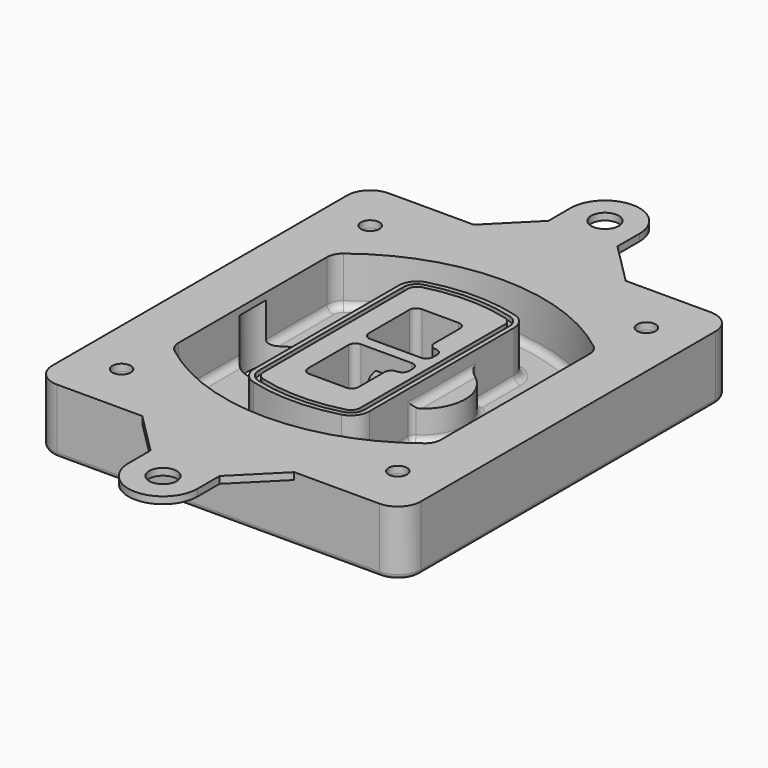
from build123d import *

# Parameters (mm, degrees)
F0_R      = 4
F1_DEPTH  = 25
F2_DEPTH  = 3
F3_DEPTH  = 18
F5_DEPTH  = 21
F6_DEPTH  = 2
F8_DEPTH  = 20
F9_DEPTH  = 16
F10_DEPTH = 25
F7_R      = 6
F7_R_2    = 4
F11_DEPTH = 6
F13_DEPTH = 9
F14_R     = 3
F15_R     = 2
F16_R     = 6
F16_R_2   = 4
F17_DEPTH = 3


with BuildPart() as f1:
    # F0 (on Top) → F1 (new body)
    with BuildSketch(Plane.XY):
        with BuildLine():
            ThreePointArc((-80, -80), (-77.0710678119, -87.0710678119), (-70, -90))
            Line((-70, -90), (70, -90))
            ThreePointArc((70, -90), (77.0710678119, -87.0710678119), (80, -80))
            Line((80, -80), (80, 80))
            ThreePointArc((80, 80), (77.0710678119, 87.0710678119), (70, 90))
            Line((70, 90), (-70, 90))
            ThreePointArc((-70, 90), (-77.0710678119, 87.0710678119), (-80, 80))
            Line((-80, 80), (-80, -80))
        make_face()
        with Locations((-60, -67.5)):
            Circle(F0_R, mode=Mode.SUBTRACT)
        with Locations((60, -67.5)):
            Circle(F0_R, mode=Mode.SUBTRACT)
        with Locations((-60, 67.5)):
            Circle(F0_R, mode=Mode.SUBTRACT)
        with BuildLine():
            ThreePointArc((-64, 40.2934422872), (-62.5820384798, 46.4328484224), (-58.6153846154, 51.3286200352))
            ThreePointArc((-58.6153846154, 51.3286200352), (0, 71.5), (58.6153846154, 51.3286200352))
            ThreePointArc((58.6153846154, 51.3286200352), (62.5820384798, 46.4328484224), (64, 40.2934422872))
            Line((64, 40.2934422872), (64, -40.2934422872))
            ThreePointArc((64, -40.2934422872), (62.5820384798, -46.4328484224), (58.6153846154, -51.3286200352))
            ThreePointArc((58.6153846154, -51.3286200352), (0, -71.5), (-58.6153846154, -51.3286200352))
            ThreePointArc((-58.6153846154, -51.3286200352), (-62.5820384798, -46.4328484224), (-64, -40.2934422872))
            Line((-64, -40.2934422872), (-64, 40.2934422872))
        make_face(mode=Mode.SUBTRACT)
        with Locations((60, 67.5)):
            Circle(F0_R, mode=Mode.SUBTRACT)
        with BuildLine():
            ThreePointArc((58.6153846154, 51.3286200352), (0, 71.5), (-58.6153846154, 51.3286200352))
            ThreePointArc((-58.6153846154, 51.3286200352), (-62.5820384798, 46.4328484224), (-64, 40.2934422872))
            Line((-64, 40.2934422872), (-64, -40.2934422872))
            ThreePointArc((-64, -40.2934422872), (-62.5820384798, -46.4328484224), (-58.6153846154, -51.3286200352))
            ThreePointArc((-58.6153846154, -51.3286200352), (0, -71.5), (58.6153846154, -51.3286200352))
            ThreePointArc((58.6153846154, -51.3286200352), (62.5820384798, -46.4328484224), (64, -40.2934422872))
            Line((64, -40.2934422872), (64, 40.2934422872))
            ThreePointArc((64, 40.2934422872), (62.5820384798, 46.4328484224), (58.6153846154, 51.3286200352))
        make_face()
        with BuildLine():
            Line((-60, -40.2934422872), (-60, 40.2934422872))
            ThreePointArc((-60, 40.2934422872), (-58.9871703427, 44.6787323838), (-56.1538461538, 48.1757121072))
            ThreePointArc((-56.1538461538, 48.1757121072), (0, 67.5), (56.1538461538, 48.1757121072))
            ThreePointArc((56.1538461538, 48.1757121072), (58.9871703427, 44.6787323838), (60, 40.2934422872))
            Line((60, 40.2934422872), (60, -40.2934422872))
            ThreePointArc((60, -40.2934422872), (58.9871703427, -44.6787323838), (56.1538461538, -48.1757121072))
            ThreePointArc((56.1538461538, -48.1757121072), (0, -67.5), (-56.1538461538, -48.1757121072))
            ThreePointArc((-56.1538461538, -48.1757121072), (-58.9871703427, -44.6787323838), (-60, -40.2934422872))
        make_face(mode=Mode.SUBTRACT)
        with BuildLine():
            ThreePointArc((-56.1538461538, 48.1757121072), (-58.9871703427, 44.6787323838), (-60, 40.2934422872))
            Line((-60, 40.2934422872), (-60, -40.2934422872))
            ThreePointArc((-60, -40.2934422872), (-58.9871703427, -44.6787323838), (-56.1538461538, -48.1757121072))
            ThreePointArc((-56.1538461538, -48.1757121072), (0, -67.5), (56.1538461538, -48.1757121072))
            ThreePointArc((56.1538461538, -48.1757121072), (58.9871703427, -44.6787323838), (60, -40.2934422872))
            Line((60, -40.2934422872), (60, 40.2934422872))
            ThreePointArc((60, 40.2934422872), (58.9871703427, 44.6787323838), (56.1538461538, 48.1757121072))
            ThreePointArc((56.1538461538, 48.1757121072), (0, 67.5), (-56.1538461538, 48.1757121072))
        make_face()
        with BuildLine():
            ThreePointArc((54.3076923077, 45.8110311612), (56.2910192399, 43.3631453548), (57, 40.2934422872))
            Line((57, 40.2934422872), (57, -40.2934422872))
            ThreePointArc((57, -40.2934422872), (56.2910192399, -43.3631453548), (54.3076923077, -45.8110311612))
            ThreePointArc((54.3076923077, -45.8110311612), (0, -64.5), (-54.3076923077, -45.8110311612))
            ThreePointArc((-54.3076923077, -45.8110311612), (-56.2910192399, -43.3631453548), (-57, -40.2934422872))
            Line((-57, -40.2934422872), (-57, 40.2934422872))
            ThreePointArc((-57, 40.2934422872), (-56.2910192399, 43.3631453548), (-54.3076923077, 45.8110311612))
            ThreePointArc((-54.3076923077, 45.8110311612), (0, 64.5), (54.3076923077, 45.8110311612))
        make_face(mode=Mode.SUBTRACT)
        with BuildLine():
            Line((57, -40.2934422872), (57, 40.2934422872))
            ThreePointArc((57, 40.2934422872), (56.2910192399, 43.3631453548), (54.3076923077, 45.8110311612))
            ThreePointArc((54.3076923077, 45.8110311612), (0, 64.5), (-54.3076923077, 45.8110311612))
            ThreePointArc((-54.3076923077, 45.8110311612), (-56.2910192399, 43.3631453548), (-57, 40.2934422872))
            Line((-57, 40.2934422872), (-57, -40.2934422872))
            ThreePointArc((-57, -40.2934422872), (-56.2910192399, -43.3631453548), (-54.3076923077, -45.8110311612))
            ThreePointArc((-54.3076923077, -45.8110311612), (0, -64.5), (54.3076923077, -45.8110311612))
            ThreePointArc((54.3076923077, -45.8110311612), (56.2910192399, -43.3631453548), (57, -40.2934422872))
        make_face()
    extrude(amount=-F1_DEPTH)

    # F0 (on Top) → F2 (join)
    with BuildSketch(Plane.XY):
        with BuildLine():
            ThreePointArc((-56.1538461538, 48.1757121072), (-58.9871703427, 44.6787323838), (-60, 40.2934422872))
            Line((-60, 40.2934422872), (-60, -40.2934422872))
            ThreePointArc((-60, -40.2934422872), (-58.9871703427, -44.6787323838), (-56.1538461538, -48.1757121072))
            ThreePointArc((-56.1538461538, -48.1757121072), (0, -67.5), (56.1538461538, -48.1757121072))
            ThreePointArc((56.1538461538, -48.1757121072), (58.9871703427, -44.6787323838), (60, -40.2934422872))
            Line((60, -40.2934422872), (60, 40.2934422872))
            ThreePointArc((60, 40.2934422872), (58.9871703427, 44.6787323838), (56.1538461538, 48.1757121072))
            ThreePointArc((56.1538461538, 48.1757121072), (0, 67.5), (-56.1538461538, 48.1757121072))
        make_face()
        with BuildLine():
            ThreePointArc((54.3076923077, 45.8110311612), (56.2910192399, 43.3631453548), (57, 40.2934422872))
            Line((57, 40.2934422872), (57, -40.2934422872))
            ThreePointArc((57, -40.2934422872), (56.2910192399, -43.3631453548), (54.3076923077, -45.8110311612))
            ThreePointArc((54.3076923077, -45.8110311612), (0, -64.5), (-54.3076923077, -45.8110311612))
            ThreePointArc((-54.3076923077, -45.8110311612), (-56.2910192399, -43.3631453548), (-57, -40.2934422872))
            Line((-57, -40.2934422872), (-57, 40.2934422872))
            ThreePointArc((-57, 40.2934422872), (-56.2910192399, 43.3631453548), (-54.3076923077, 45.8110311612))
            ThreePointArc((-54.3076923077, 45.8110311612), (0, 64.5), (54.3076923077, 45.8110311612))
        make_face(mode=Mode.SUBTRACT)
    extrude(amount=F2_DEPTH)

    # F0 (on Top) → F3 (cut)
    with BuildSketch(Plane.XY):
        with BuildLine():
            Line((57, -40.2934422872), (57, 40.2934422872))
            ThreePointArc((57, 40.2934422872), (56.2910192399, 43.3631453548), (54.3076923077, 45.8110311612))
            ThreePointArc((54.3076923077, 45.8110311612), (0, 64.5), (-54.3076923077, 45.8110311612))
            ThreePointArc((-54.3076923077, 45.8110311612), (-56.2910192399, 43.3631453548), (-57, 40.2934422872))
            Line((-57, 40.2934422872), (-57, -40.2934422872))
            ThreePointArc((-57, -40.2934422872), (-56.2910192399, -43.3631453548), (-54.3076923077, -45.8110311612))
            ThreePointArc((-54.3076923077, -45.8110311612), (0, -64.5), (54.3076923077, -45.8110311612))
            ThreePointArc((54.3076923077, -45.8110311612), (56.2910192399, -43.3631453548), (57, -40.2934422872))
        make_face()
    extrude(amount=-F3_DEPTH, mode=Mode.SUBTRACT)

    # F4 (on face) → F5 (join, through all)
    with BuildSketch(Plane.XY.offset(3)):
        with BuildLine():
            ThreePointArc((-25, -39.2465276821), (-23.3511545998, -44.1109737193), (-19.0842911877, -46.9702398883))
            ThreePointArc((-19.0842911877, -46.9702398883), (0, -49.5), (19.0842911877, -46.9702398883))
            ThreePointArc((19.0842911877, -46.9702398883), (23.3511545998, -44.1109737193), (25, -39.2465276821))
            Line((25, -39.2465276821), (25, 39.2465276821))
            ThreePointArc((25, 39.2465276821), (23.3511545998, 44.1109737193), (19.0842911877, 46.9702398883))
            ThreePointArc((19.0842911877, 46.9702398883), (0, 49.5), (-19.0842911877, 46.9702398883))
            ThreePointArc((-19.0842911877, 46.9702398883), (-23.3511545998, 44.1109737193), (-25, 39.2465276821))
            Line((-25, 39.2465276821), (-25, -39.2465276821))
        make_face()
        with BuildLine():
            ThreePointArc((18.5632183908, 45.0393118368), (21.7633659499, 42.89486221), (23, 39.2465276821))
            Line((23, 39.2465276821), (23, -39.2465276821))
            ThreePointArc((23, -39.2465276821), (21.7633659499, -42.89486221), (18.5632183908, -45.0393118368))
            ThreePointArc((18.5632183908, -45.0393118368), (0, -47.5), (-18.5632183908, -45.0393118368))
            ThreePointArc((-18.5632183908, -45.0393118368), (-21.7633659499, -42.89486221), (-23, -39.2465276821))
            Line((-23, -39.2465276821), (-23, 39.2465276821))
            ThreePointArc((-23, 39.2465276821), (-21.7633659499, 42.89486221), (-18.5632183908, 45.0393118368))
            ThreePointArc((-18.5632183908, 45.0393118368), (0, 47.5), (18.5632183908, 45.0393118368))
        make_face(mode=Mode.SUBTRACT)
        with BuildLine():
            Line((23, -39.2465276821), (23, 39.2465276821))
            ThreePointArc((23, 39.2465276821), (21.7633659499, 42.89486221), (18.5632183908, 45.0393118368))
            ThreePointArc((18.5632183908, 45.0393118368), (0, 47.5), (-18.5632183908, 45.0393118368))
            ThreePointArc((-18.5632183908, 45.0393118368), (-21.7633659499, 42.89486221), (-23, 39.2465276821))
            Line((-23, 39.2465276821), (-23, -39.2465276821))
            ThreePointArc((-23, -39.2465276821), (-21.7633659499, -42.89486221), (-18.5632183908, -45.0393118368))
            ThreePointArc((-18.5632183908, -45.0393118368), (0, -47.5), (18.5632183908, -45.0393118368))
            ThreePointArc((18.5632183908, -45.0393118368), (21.7633659499, -42.89486221), (23, -39.2465276821))
        make_face()
        with BuildLine():
            ThreePointArc((18.0421455939, 43.1083837852), (20.1755772999, 41.6787507007), (21, 39.2465276821))
            Line((21, 39.2465276821), (21, -39.2465276821))
            ThreePointArc((21, -39.2465276821), (20.1755772999, -41.6787507007), (18.0421455939, -43.1083837852))
            ThreePointArc((18.0421455939, -43.1083837852), (0, -45.5), (-18.0421455939, -43.1083837852))
            ThreePointArc((-18.0421455939, -43.1083837852), (-20.1755772999, -41.6787507007), (-21, -39.2465276821))
            Line((-21, -39.2465276821), (-21, 39.2465276821))
            ThreePointArc((-21, 39.2465276821), (-20.1755772999, 41.6787507007), (-18.0421455939, 43.1083837852))
            ThreePointArc((-18.0421455939, 43.1083837852), (0, 45.5), (18.0421455939, 43.1083837852))
        make_face(mode=Mode.SUBTRACT)
        with BuildLine():
            Line((21, -39.2465276821), (21, 39.2465276821))
            ThreePointArc((21, 39.2465276821), (20.1755772999, 41.6787507007), (18.0421455939, 43.1083837852))
            ThreePointArc((18.0421455939, 43.1083837852), (0, 45.5), (-18.0421455939, 43.1083837852))
            ThreePointArc((-18.0421455939, 43.1083837852), (-20.1755772999, 41.6787507007), (-21, 39.2465276821))
            Line((-21, 39.2465276821), (-21, -39.2465276821))
            ThreePointArc((-21, -39.2465276821), (-20.1755772999, -41.6787507007), (-18.0421455939, -43.1083837852))
            ThreePointArc((-18.0421455939, -43.1083837852), (0, -45.5), (18.0421455939, -43.1083837852))
            ThreePointArc((18.0421455939, -43.1083837852), (20.1755772999, -41.6787507007), (21, -39.2465276821))
        make_face()
        with BuildLine():
            Line((-8, -2.5), (14, -2.5))
            ThreePointArc((14, -2.5), (16.1213203436, -3.3786796564), (17, -5.5))
            Line((17, -5.5), (17, -7.5))
            ThreePointArc((17, -7.5), (16.1213203436, -9.6213203436), (14, -10.5))
            ThreePointArc((14, -10.5), (11.8786796564, -11.3786796564), (11, -13.5))
            Line((11, -13.5), (11, -27.5))
            ThreePointArc((11, -27.5), (10.1213203436, -29.6213203436), (8, -30.5))
            Line((8, -30.5), (-8, -30.5))
            ThreePointArc((-8, -30.5), (-10.1213203436, -29.6213203436), (-11, -27.5))
            Line((-11, -27.5), (-11, -5.5))
            ThreePointArc((-11, -5.5), (-10.1213203436, -3.3786796564), (-8, -2.5))
        make_face(mode=Mode.SUBTRACT)
        with BuildLine():
            ThreePointArc((-8, 2.5), (-10.1213203436, 3.3786796564), (-11, 5.5))
            Line((-11, 5.5), (-11, 27.5))
            ThreePointArc((-11, 27.5), (-10.1213203436, 29.6213203436), (-8, 30.5))
            Line((-8, 30.5), (8, 30.5))
            ThreePointArc((8, 30.5), (10.1213203436, 29.6213203436), (11, 27.5))
            Line((11, 27.5), (11, 13.5))
            ThreePointArc((11, 13.5), (11.8786796564, 11.3786796564), (14, 10.5))
            ThreePointArc((14, 10.5), (16.1213203436, 9.6213203436), (17, 7.5))
            Line((17, 7.5), (17, 5.5))
            ThreePointArc((17, 5.5), (16.1213203436, 3.3786796564), (14, 2.5))
            Line((14, 2.5), (-8, 2.5))
        make_face(mode=Mode.SUBTRACT)
    extrude(amount=-F5_DEPTH)

    # F4 (on face) → F6 (cut)
    with BuildSketch(Plane.XY.offset(3)):
        with BuildLine():
            Line((23, -39.2465276821), (23, 39.2465276821))
            ThreePointArc((23, 39.2465276821), (21.7633659499, 42.89486221), (18.5632183908, 45.0393118368))
            ThreePointArc((18.5632183908, 45.0393118368), (0, 47.5), (-18.5632183908, 45.0393118368))
            ThreePointArc((-18.5632183908, 45.0393118368), (-21.7633659499, 42.89486221), (-23, 39.2465276821))
            Line((-23, 39.2465276821), (-23, -39.2465276821))
            ThreePointArc((-23, -39.2465276821), (-21.7633659499, -42.89486221), (-18.5632183908, -45.0393118368))
            ThreePointArc((-18.5632183908, -45.0393118368), (0, -47.5), (18.5632183908, -45.0393118368))
            ThreePointArc((18.5632183908, -45.0393118368), (21.7633659499, -42.89486221), (23, -39.2465276821))
        make_face()
        with BuildLine():
            ThreePointArc((18.0421455939, 43.1083837852), (20.1755772999, 41.6787507007), (21, 39.2465276821))
            Line((21, 39.2465276821), (21, -39.2465276821))
            ThreePointArc((21, -39.2465276821), (20.1755772999, -41.6787507007), (18.0421455939, -43.1083837852))
            ThreePointArc((18.0421455939, -43.1083837852), (0, -45.5), (-18.0421455939, -43.1083837852))
            ThreePointArc((-18.0421455939, -43.1083837852), (-20.1755772999, -41.6787507007), (-21, -39.2465276821))
            Line((-21, -39.2465276821), (-21, 39.2465276821))
            ThreePointArc((-21, 39.2465276821), (-20.1755772999, 41.6787507007), (-18.0421455939, 43.1083837852))
            ThreePointArc((-18.0421455939, 43.1083837852), (0, 45.5), (18.0421455939, 43.1083837852))
        make_face(mode=Mode.SUBTRACT)
    extrude(amount=-F6_DEPTH, mode=Mode.SUBTRACT)

    # F7 (on face) → F8 (join)
    with BuildSketch(Plane(origin=(0, 0, -25), x_dir=(1, 0, 0), z_dir=(0, 0, -1))):
        with BuildLine():
            ThreePointArc((3.28842436, 0), (16.7567035675, 13.4682792075), (30.224982775, 0))
            Line((30.224982775, 0), (35.224982775, 0))
            ThreePointArc((35.224982775, 0), (16.7567035675, 18.4682792075), (-1.71157564, 0))
            Line((-1.71157564, 0), (3.28842436, 0))
        make_face()
        with BuildLine():
            Line((3.28842436, 0), (30.224982775, 0))
            ThreePointArc((30.224982775, 0), (16.7567035675, 13.4682792075), (3.28842436, 0))
        make_face()
        with BuildLine():
            ThreePointArc((3.28842436, 0), (16.7567035675, -13.4682792075), (30.224982775, 0))
            Line((30.224982775, 0), (3.28842436, 0))
        make_face()
        with BuildLine():
            Line((35.224982775, 0), (30.224982775, 0))
            ThreePointArc((30.224982775, 0), (16.7567035675, -13.4682792075), (3.28842436, 0))
            Line((3.28842436, 0), (-1.71157564, 0))
            ThreePointArc((-1.71157564, 0), (16.7567035675, -18.4682792075), (35.224982775, 0))
        make_face()
    extrude(amount=-F8_DEPTH)

    # F7 (on face) → F9 (cut)
    with BuildSketch(Plane(origin=(0, 0, -25), x_dir=(1, 0, 0), z_dir=(0, 0, -1))):
        with BuildLine():
            Line((3.28842436, 0), (30.224982775, 0))
            ThreePointArc((30.224982775, 0), (16.7567035675, 13.4682792075), (3.28842436, 0))
        make_face()
        with BuildLine():
            ThreePointArc((3.28842436, 0), (16.7567035675, -13.4682792075), (30.224982775, 0))
            Line((30.224982775, 0), (3.28842436, 0))
        make_face()
    extrude(amount=-F9_DEPTH, mode=Mode.SUBTRACT)

    # F7 (on face) → F10 (cut)
    with BuildSketch(Plane(origin=(0, 0, -25), x_dir=(1, 0, 0), z_dir=(0, 0, -1))):
        with BuildLine():
            Line((-59.0318229325, 0), (-32.0952645175, 0))
            ThreePointArc((-32.0952645175, 0), (-45.563543725, 13.4682792075), (-59.0318229325, 0))
        make_face()
        with BuildLine():
            ThreePointArc((-59.0318229325, 0), (-45.563543725, -13.4682792075), (-32.0952645175, 0))
            Line((-32.0952645175, 0), (-59.0318229325, 0))
        make_face()
    extrude(amount=-F10_DEPTH, mode=Mode.SUBTRACT)

    # F7 (on face) → F11 (cut)
    with BuildSketch(Plane(origin=(0, 0, -25), x_dir=(1, 0, 0), z_dir=(0, 0, -1))):
        with Locations((60, -67.5)):
            Circle(F7_R)
        with Locations((60, -67.5)):
            Circle(F7_R_2, mode=Mode.SUBTRACT)
        with Locations((60, -67.5)):
            Circle(F7_R)
        with Locations((60, -67.5)):
            Circle(F7_R_2, mode=Mode.SUBTRACT)
        with Locations((-60, -67.5)):
            Circle(F7_R)
        with Locations((-60, -67.5)):
            Circle(F7_R_2, mode=Mode.SUBTRACT)
        with Locations((-60, -67.5)):
            Circle(F7_R)
        with Locations((-60, -67.5)):
            Circle(F7_R_2, mode=Mode.SUBTRACT)
        with Locations((-60, 67.5)):
            Circle(F7_R)
        with Locations((-60, 67.5)):
            Circle(F7_R_2, mode=Mode.SUBTRACT)
        with Locations((-60, 67.5)):
            Circle(F7_R)
        with Locations((-60, 67.5)):
            Circle(F7_R_2, mode=Mode.SUBTRACT)
        with Locations((60, 67.5)):
            Circle(F7_R)
        with Locations((60, 67.5)):
            Circle(F7_R_2, mode=Mode.SUBTRACT)
        with Locations((60, 67.5)):
            Circle(F7_R)
        with Locations((60, 67.5)):
            Circle(F7_R_2, mode=Mode.SUBTRACT)
    extrude(amount=-F11_DEPTH, mode=Mode.SUBTRACT)

    # F12 (on face) → F13 (cut, through all)
    with BuildSketch(Plane(origin=(0, 0, -9), x_dir=(1, 0, 0), z_dir=(0, 0, -1))):
        with BuildLine():
            Line((11, 13.5), (11, 17.5481537753))
            ThreePointArc((11, 17.5481537753), (2.5696536419, 11.8239143813), (-1.5415842455, 2.5))
            Line((-1.5415842455, 2.5), (3.5224848595, 2.5))
            ThreePointArc((3.5224848595, 2.5), (6.1857188154, 8.3455872281), (11.2536447004, 12.2927168648))
            ThreePointArc((11.2536447004, 12.2927168648), (11.0640958889, 12.8831798879), (11, 13.5))
        make_face()
        with BuildLine():
            ThreePointArc((11.2536447004, -12.2927168648), (6.1857188154, -8.3455872281), (3.5224848595, -2.5))
            Line((3.5224848595, -2.5), (-1.5415842455, -2.5))
            ThreePointArc((-1.5415842455, -2.5), (2.5696536419, -11.8239143813), (11, -17.5481537753))
            Line((11, -17.5481537753), (11, -13.5))
            ThreePointArc((11, -13.5), (11.0640958889, -12.8831798879), (11.2536447004, -12.2927168648))
        make_face()
        with BuildLine():
            ThreePointArc((11.2536447004, 12.2927168648), (6.1857188154, 8.3455872281), (3.5224848595, 2.5))
            Line((3.5224848595, 2.5), (14, 2.5))
            ThreePointArc((14, 2.5), (16.1213203436, 3.3786796564), (17, 5.5))
            Line((17, 5.5), (17, 7.5))
            ThreePointArc((17, 7.5), (16.1213203436, 9.6213203436), (14, 10.5))
            ThreePointArc((14, 10.5), (12.3601599782, 10.9878446101), (11.2536447004, 12.2927168648))
        make_face()
        with BuildLine():
            Line((14, -2.5), (3.5224848595, -2.5))
            ThreePointArc((3.5224848595, -2.5), (6.1857188154, -8.3455872281), (11.2536447004, -12.2927168648))
            ThreePointArc((11.2536447004, -12.2927168648), (12.3601599782, -10.9878446101), (14, -10.5))
            ThreePointArc((14, -10.5), (16.1213203436, -9.6213203436), (17, -7.5))
            Line((17, -7.5), (17, -5.5))
            ThreePointArc((17, -5.5), (16.1213203436, -3.3786796564), (14, -2.5))
        make_face()
    extrude(amount=F13_DEPTH, mode=Mode.SUBTRACT)

    # F14
    f14_edges = [f1.edges().sort_by_distance(p)[0] for p in [
        (-57, -23.703476, -18),
        (-57, 23.703476, -18),
        (25, 0, -5),
        (25, 16.526506, -11.5),
        (25, -16.526506, -11.5),
        (25, -27.886517, -18),
        (35.224983, 0, -18),
    ]]
    fillet(f14_edges, radius=F14_R)

    # F15
    f15_edges = [f1.edges().sort_by_distance(p)[0] for p in [
        (0, -90, -25),
    ]]
    fillet(f15_edges, radius=F15_R)

    # F16 (on face) → F17 (join, through all)
    with BuildSketch(Plane.XY):
        with BuildLine():
            Line((33, -90), (-33, -90))
            Line((-33, -90), (-15, -108))
            Line((-15, -108), (-15, -120))
            ThreePointArc((-15, -120), (0, -135), (15, -120))
            Line((15, -120), (15, -108))
            Line((15, -108), (33, -90))
        make_face()
        with Locations((0, -120)):
            Circle(F16_R, mode=Mode.SUBTRACT)
        with BuildLine():
            Line((33, 90), (-33, 90))
            Line((-33, 90), (-70, 90))
            ThreePointArc((-70, 90), (-77.0710678119, 87.0710678119), (-80, 80))
            Line((-80, 80), (-80, -80))
            ThreePointArc((-80, -80), (-77.0710678119, -87.0710678119), (-70, -90))
            Line((-70, -90), (-33, -90))
            Line((-33, -90), (33, -90))
            Line((33, -90), (70, -90))
            ThreePointArc((70, -90), (77.0710678119, -87.0710678119), (80, -80))
            Line((80, -80), (80, 80))
            ThreePointArc((80, 80), (77.0710678119, 87.0710678119), (70, 90))
            Line((70, 90), (33, 90))
        make_face()
        with Locations((-60, -67.5)):
            Circle(F16_R_2, mode=Mode.SUBTRACT)
        with Locations((60, -67.5)):
            Circle(F16_R_2, mode=Mode.SUBTRACT)
        with Locations((-60, 67.5)):
            Circle(F16_R_2, mode=Mode.SUBTRACT)
        with BuildLine():
            ThreePointArc((-60, 40.2934422872), (-58.9871703427, 44.6787323838), (-56.1538461538, 48.1757121072))
            ThreePointArc((-56.1538461538, 48.1757121072), (0, 67.5), (56.1538461538, 48.1757121072))
            ThreePointArc((56.1538461538, 48.1757121072), (58.9871703427, 44.6787323838), (60, 40.2934422872))
            Line((60, 40.2934422872), (60, -40.2934422872))
            ThreePointArc((60, -40.2934422872), (58.9871703427, -44.6787323838), (56.1538461538, -48.1757121072))
            ThreePointArc((56.1538461538, -48.1757121072), (0, -67.5), (-56.1538461538, -48.1757121072))
            ThreePointArc((-56.1538461538, -48.1757121072), (-58.9871703427, -44.6787323838), (-60, -40.2934422872))
            Line((-60, -40.2934422872), (-60, 40.2934422872))
        make_face(mode=Mode.SUBTRACT)
        with Locations((60, 67.5)):
            Circle(F16_R_2, mode=Mode.SUBTRACT)
        with BuildLine():
            Line((-15, 108), (-33, 90))
            Line((-33, 90), (33, 90))
            Line((33, 90), (15, 108))
            Line((15, 108), (15, 120))
            ThreePointArc((15, 120), (0, 135), (-15, 120))
            Line((-15, 120), (-15, 108))
        make_face()
        with Locations((0, 120)):
            Circle(F16_R, mode=Mode.SUBTRACT)
    extrude(amount=F17_DEPTH)


solid = f1.part
